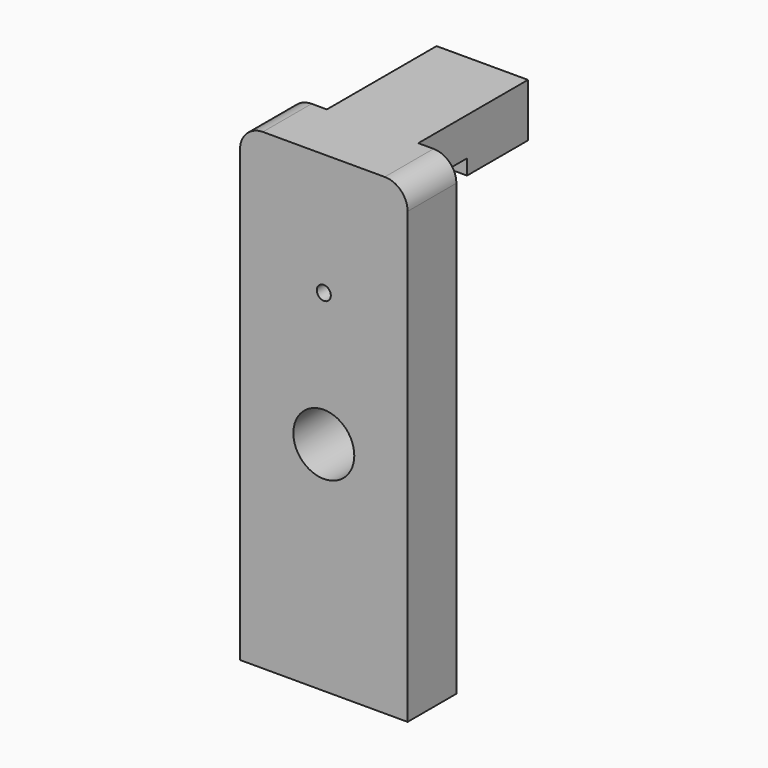
from build123d import *

# Parameters (mm, degrees)
F0_R     = 4
F1_DEPTH = 8
F2_DEPTH = 16
F3_START = -16
F3_DEPTH = 10


with BuildPart() as f1:
    # F0 (on Front) → F1 (new body)
    with BuildSketch(Plane.XZ):
        with BuildLine():
            Line((11, -17.5), (11, 17.5))
            Line((11, 17.5), (11, 30.5))
            ThreePointArc((11, 30.5), (10.1213203436, 32.6213203436), (8, 33.5))
            Line((8, 33.5), (6, 33.5))
            Line((6, 33.5), (6, 28.5))
            Line((6, 28.5), (6, 26.5))
            Line((6, 26.5), (-6, 26.5))
            Line((-6, 26.5), (-6, 28.5))
            Line((-6, 28.5), (-6, 33.5))
            Line((-6, 33.5), (-8, 33.5))
            ThreePointArc((-8, 33.5), (-10.1213203436, 32.6213203436), (-11, 30.5))
            Line((-11, 30.5), (-11, 28.5))
            Line((-11, 28.5), (-11, 17.5))
            Line((-11, 17.5), (-11, -17.5))
            Line((-11, -17.5), (-11, -28.5))
            Line((-11, -28.5), (0, -28.5))
            Line((0, -28.5), (11, -28.5))
            Line((11, -28.5), (11, -17.5))
        make_face()
        Circle(F0_R, mode=Mode.SUBTRACT)
        with BuildLine():
            ThreePointArc((0, 18.4210526316), (0.6512825616, 18.1512825616), (0.9210526316, 17.5))
            ThreePointArc((0.9210526316, 17.5), (-0.6512825616, 16.8487174384), (0, 18.4210526316))
        make_face(mode=Mode.SUBTRACT)
        Polygon((6, 26.5), (6, 28.5), (0, 28.5), (-6, 28.5), (-6, 26.5), align=None)
        Polygon((6, 26.5), (6, 28.5), (0, 28.5), (-6, 28.5), (-6, 26.5), align=None)
        Polygon((6, 28.5), (6, 33.5), (0, 33.5), (-6, 33.5), (-6, 28.5), (0, 28.5), align=None)
    extrude(amount=-F1_DEPTH)

    # F0 (on Front) → F2 (join)
    with BuildSketch(Plane.XZ):
        Polygon((6, 28.5), (6, 33.5), (0, 33.5), (-6, 33.5), (-6, 28.5), (0, 28.5), align=None)
    extrude(amount=-F2_DEPTH)

    # F0 (on Front) → F3 (join)
    with BuildSketch(Plane.XZ.offset(F3_START)):
        Polygon((6, 28.5), (6, 33.5), (0, 33.5), (-6, 33.5), (-6, 28.5), (0, 28.5), align=None)
        Polygon((6, 26.5), (6, 28.5), (0, 28.5), (-6, 28.5), (-6, 26.5), align=None)
        Polygon((6, 26.5), (6, 28.5), (0, 28.5), (-6, 28.5), (-6, 26.5), align=None)
    extrude(amount=-F3_DEPTH)


solid = f1.part
